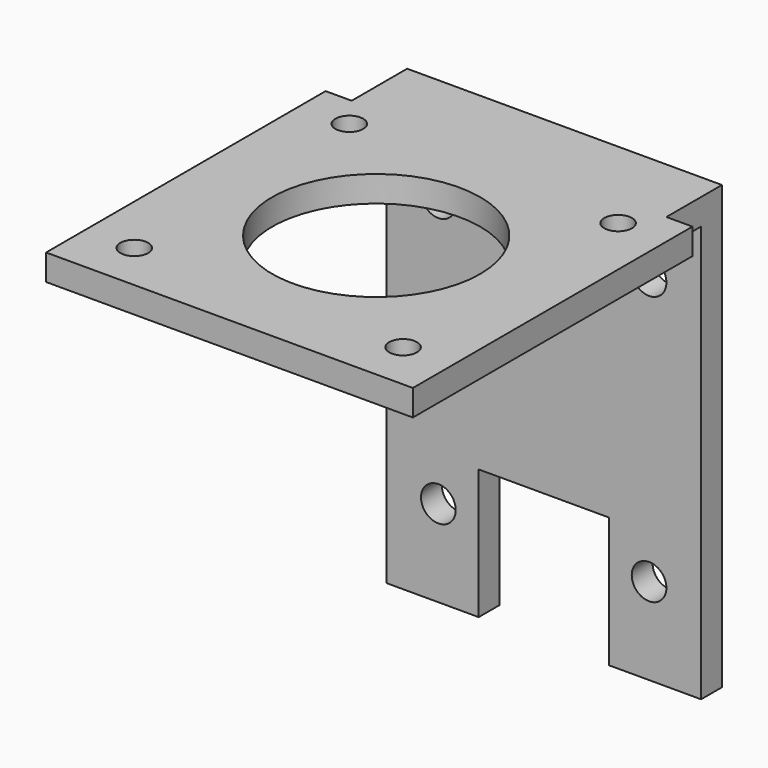
from build123d import *

# Parameters (mm, degrees)
SKETCH_R      = 1.6
SKETCH_R_2    = 12
PAD_DEPTH     = 3
SKETCH001_W   = 42.3
SKETCH001_H   = 3
PAD001_DEPTH  = 48
SKETCH002_R   = 2
SKETCH002_W   = 15
SKETCH002_H   = 15
SKETCH002_W_2 = 3
SKETCH002_H_2 = 51
POCKET_DEPTH  = 8


with BuildPart() as part:
    # Sketch → Pad (new body)
    with BuildSketch(Plane.XY):
        Polygon((0, 0), (42.3, 0), (42.3, 42.3), (42.3, 48.3), (0, 48.3), (0, 42.3), align=None)
        with Locations((5.65, 36.65)):
            Circle(SKETCH_R, mode=Mode.SUBTRACT)
        with Locations((36.65, 36.65)):
            Circle(SKETCH_R, mode=Mode.SUBTRACT)
        with Locations((5.65, 5.65)):
            Circle(SKETCH_R, mode=Mode.SUBTRACT)
        with Locations((36.65, 5.65)):
            Circle(SKETCH_R, mode=Mode.SUBTRACT)
        with Locations((21.15, 21.15)):
            Circle(SKETCH_R_2, mode=Mode.SUBTRACT)
    extrude(amount=PAD_DEPTH)

    # Sketch001 → Pad001 (new body)
    with BuildSketch(Plane(origin=(0, 0, 0), x_dir=(1, 0, 0), z_dir=(0, 0, -1))):
        with Locations((21.15, -46.8)):
            Rectangle(SKETCH001_W, SKETCH001_H)
    extrude(amount=PAD001_DEPTH)

    # Sketch002 → Pocket (cut)
    with BuildSketch(Plane(origin=(0, 48.3, 0), x_dir=(-1, 0, 0), z_dir=(0, 1, 0))):
        with Locations((-33.3, -7)):
            Circle(SKETCH002_R)
        with Locations((-9, -7)):
            Circle(SKETCH002_R)
        with Locations((-33.3, -38)):
            Circle(SKETCH002_R)
        with Locations((-9, -38)):
            Circle(SKETCH002_R)
        with Locations((-21.15, -40.5)):
            Rectangle(SKETCH002_W, SKETCH002_H)
        with Locations((-1.5, -22.5)):
            Rectangle(SKETCH002_W_2, SKETCH002_H_2)
        with Locations((-40.8, -22.5)):
            Rectangle(SKETCH002_W_2, SKETCH002_H_2)
    extrude(amount=-POCKET_DEPTH, mode=Mode.SUBTRACT)


solid = part.part
